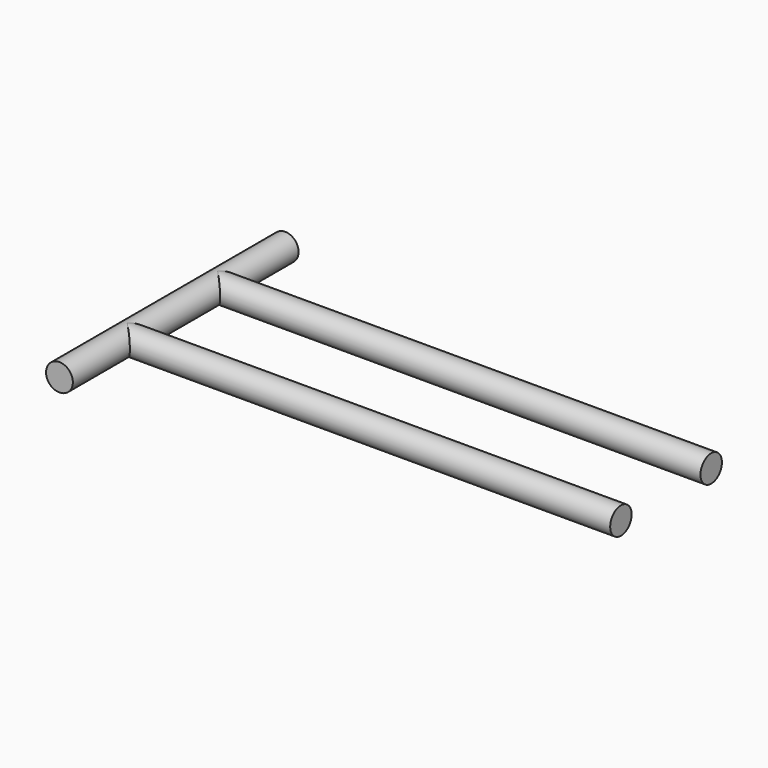
from build123d import *

# Parameters (mm, degrees)
F0_R     = 2.413
F1_DEPTH = 50.8
F2_R     = 2.413
F3_DEPTH = 88.9


with BuildPart() as f1:
    # F0 (on Front) → F1 (new body)
    with BuildSketch(Plane.XZ):
        Circle(F0_R)
    extrude(amount=F1_DEPTH)

    # F2 (on Right) → F3 (join)
    with BuildSketch(Plane.YZ):
        with Locations((-35.56, 0)):
            Circle(F2_R)
        with Locations((-15.24, 0)):
            Circle(F2_R)
    extrude(amount=F3_DEPTH)


solid = f1.part
